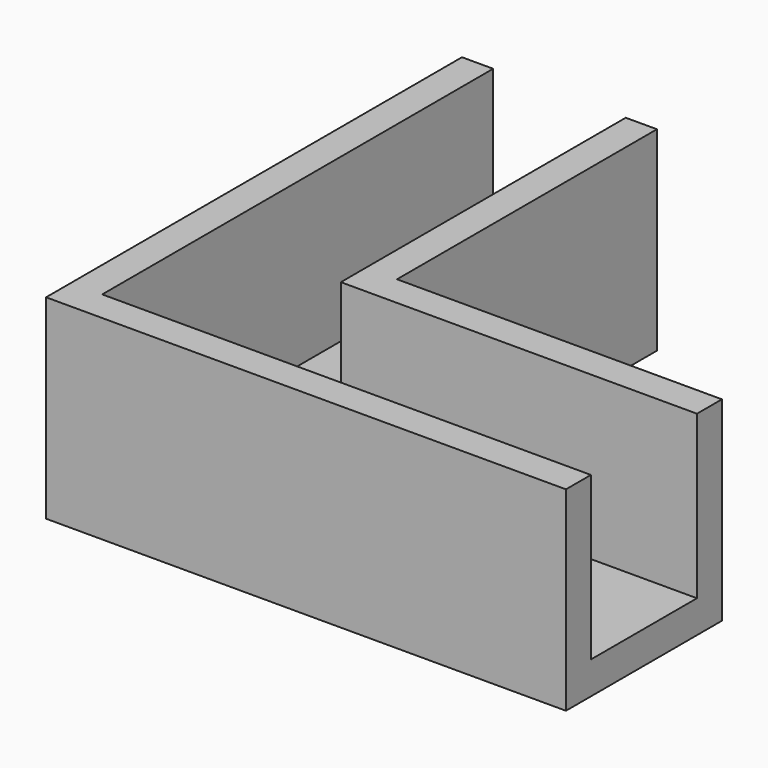
from build123d import *

# Parameters (mm, degrees)
F1_DEPTH = 19.05
F3_DEPTH = 15.875


with BuildPart() as f1:
    # F0 (on Top) → F1 (new body)
    with BuildSketch(Plane.XY):
        Polygon((0, 50.8), (0, 0), (50.8, 0), (50.8, 19.05), (19.05, 19.05), (19.05, 50.8), align=None)
    extrude(amount=F1_DEPTH)

    # F2 (on face) → F3 (cut)
    with BuildSketch(Plane.XY.offset(19.05)):
        Polygon((50.8, 16.002), (16.002, 16.002), (16.002, 50.8), (3.048, 50.8), (3.048, 3.048), (50.8, 3.048), align=None)
    extrude(amount=-F3_DEPTH, mode=Mode.SUBTRACT)


solid = f1.part
